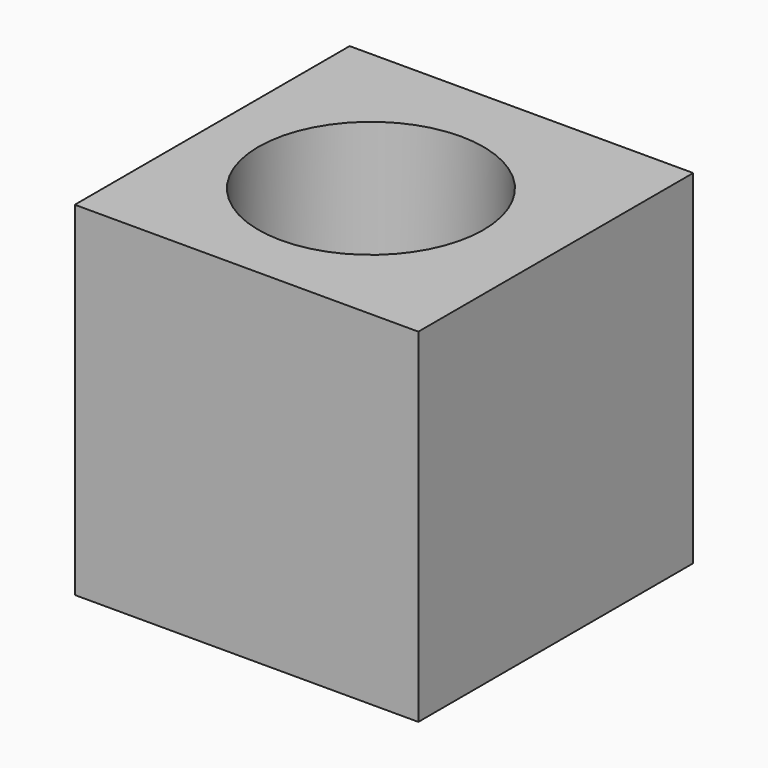
from build123d import *

# Parameters (mm, degrees)
F0_R     = 16.635209
F0_W     = 10.285949
F0_H     = 10.285953
F1_DEPTH = 25.4
F0_W_2   = 50.8
F0_H_2   = 50.8
F2_DEPTH = 50.8


with BuildPart() as f1:
    # F0 (on Top) → F1 (new body)
    with BuildSketch(Plane.XY):
        with Locations((24.140496, 24.560331)):
            Circle(F0_R)
        with Locations((25.504959, 23.19587)):
            Rectangle(F0_W, F0_H, mode=Mode.SUBTRACT)
    extrude(amount=F1_DEPTH)

    # F0 (on Top) → F2 (join)
    with BuildSketch(Plane.XY):
        with Locations((25.4, 25.4)):
            Rectangle(F0_W_2, F0_H_2)
        with Locations((24.140496, 24.560331)):
            Circle(F0_R, mode=Mode.SUBTRACT)
    extrude(amount=F2_DEPTH)


solid = f1.part
